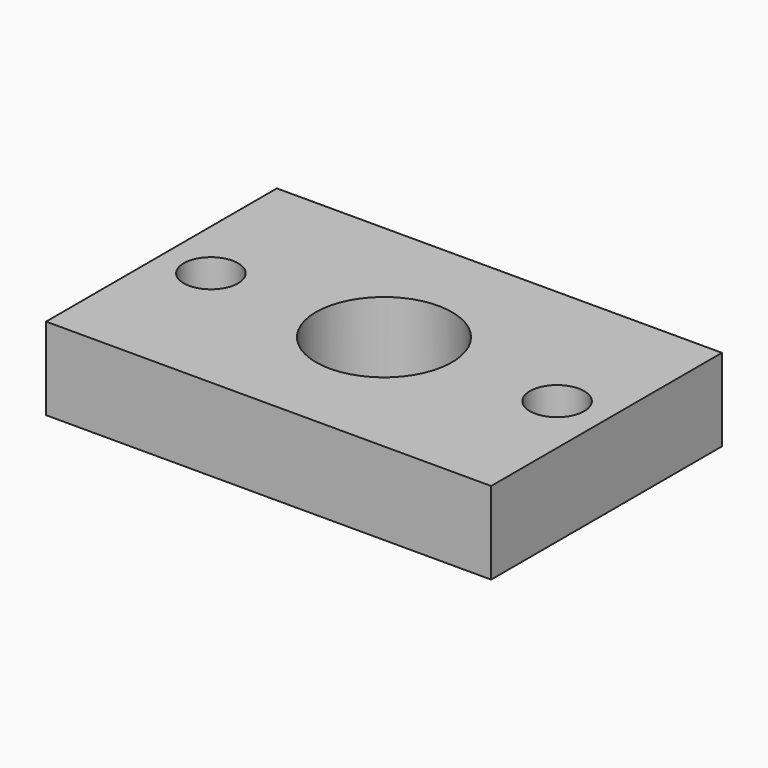
from build123d import *

# Parameters (mm, degrees)
F0_W     = 54
F0_H     = 35
F1_DEPTH = 10
F3_D     = 16.5
F5_D     = 6.6


with BuildPart() as f1:
    # F0 (on Top) → F1 (new body)
    with BuildSketch(Plane.XY):
        Rectangle(F0_W, F0_H)
    extrude(amount=F1_DEPTH)

    # F3 (through all)
    with Locations(Plane.XY.offset(10)):
        with Locations((0, 0)):
            Hole(F3_D / 2)

    # F5 (through all)
    with Locations(Plane.XY.offset(10)):
        with Locations((-21, 0), (21, 0)):
            Hole(F5_D / 2)


solid = f1.part
